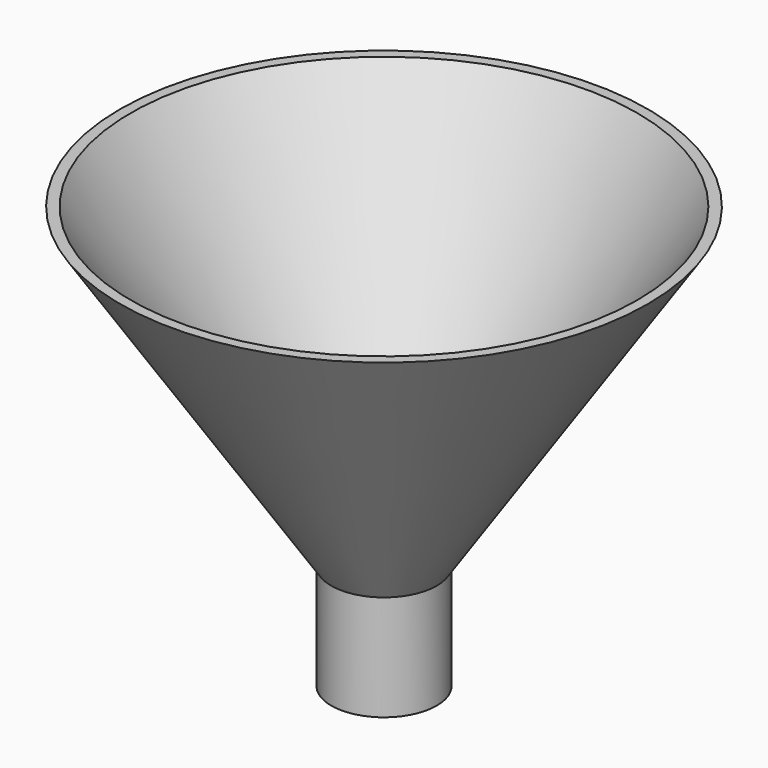
from build123d import *

# Parameters (mm, degrees)
CYLINDER001_R     = 4
CYLINDER001_DEPTH = 10
CYLINDER_R        = 5
CYLINDER_DEPTH    = 10


with BuildPart() as con001:
    # Cone001 → Cone001 (revolve)
    with BuildSketch(Plane.XZ):
        Polygon((0, 0), (4, 0), (24, 30), (0, 30), align=None)
    revolve(axis=Axis((0, 0, 0), (0, 0, 1)))


with BuildPart() as cut:
    # Cone → Cone (revolve)
    with BuildSketch(Plane.XZ):
        Polygon((0, 0), (5, 0), (25, 30), (0, 30), align=None)
    revolve(axis=Axis((0, 0, 0), (0, 0, 1)))

    # Cut: cut Con001
    add(con001.part, mode=Mode.SUBTRACT)


with BuildPart() as cilindre001:
    # Cylinder001 → Cylinder001 (new body)
    with BuildSketch(Plane.XY.offset(-10)):
        Circle(CYLINDER001_R)
    extrude(amount=CYLINDER001_DEPTH)


with BuildPart() as obj1:
    # Cylinder → Cylinder (new body)
    with BuildSketch(Plane.XY.offset(-10)):
        Circle(CYLINDER_R)
    extrude(amount=CYLINDER_DEPTH)

    # Cut001: cut Cilindre001
    add(cilindre001.part, mode=Mode.SUBTRACT)

    # Fusion: union Cut
    add(cut.part)


solid = obj1.part
